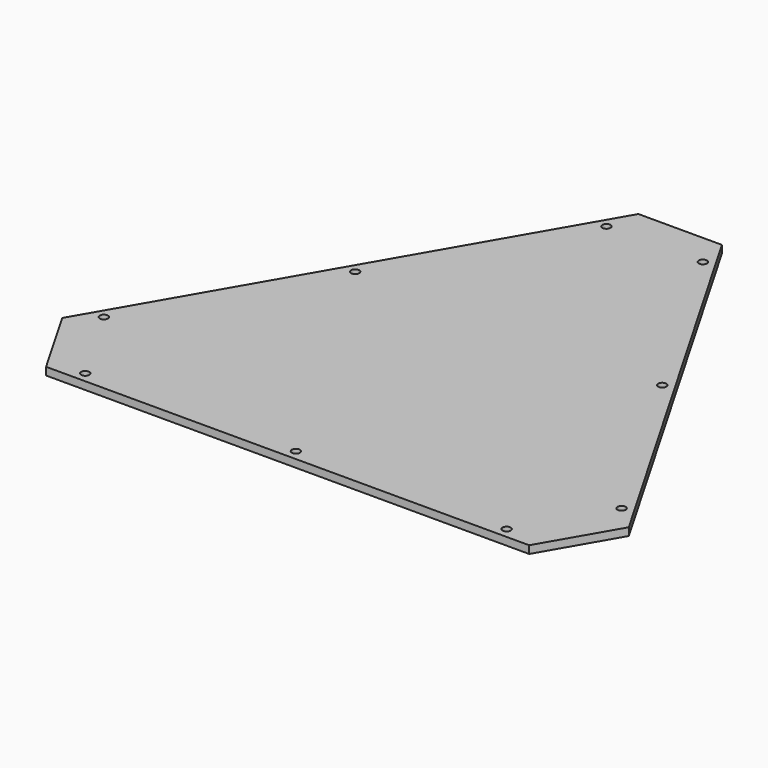
from build123d import *

# Parameters (mm, degrees)
F1_DEPTH = 6.35


with BuildPart() as f1:
    # F0 (on Top) → F1 (new body)
    with BuildSketch(Plane.XY):
        Polygon((538.830596, 268.757908), (339.87359, -75.845721), (374.275071, -135.430819), (772.189058, -135.430819), (806.590538, -75.845721), (607.633532, 268.757908), align=None)
        with BuildLine():
            ThreePointArc((396.296871, -126.878334), (399.675071, -123.500134), (403.053271, -126.878334))
            ThreePointArc((403.053271, -126.878334), (399.675071, -130.256534), (396.296871, -126.878334))
        make_face(mode=Mode.SUBTRACT)
        with BuildLine():
            ThreePointArc((356.602055, -58.124903), (359.980255, -54.746703), (363.358455, -58.124903))
            ThreePointArc((363.358455, -58.124903), (359.980255, -61.503103), (356.602055, -58.124903))
        make_face(mode=Mode.SUBTRACT)
        with BuildLine():
            ThreePointArc((569.853877, -126.878334), (573.232077, -123.500134), (576.610277, -126.878334))
            ThreePointArc((576.610277, -126.878334), (573.232077, -130.256534), (569.853877, -126.878334))
        make_face(mode=Mode.SUBTRACT)
        with BuildLine():
            ThreePointArc((743.410858, -126.878334), (746.789058, -123.500134), (750.167258, -126.878334))
            ThreePointArc((750.167258, -126.878334), (746.789058, -130.256534), (743.410858, -126.878334))
        make_face(mode=Mode.SUBTRACT)
        with BuildLine():
            ThreePointArc((783.105673, -58.124903), (786.483873, -54.746703), (789.862073, -58.124903))
            ThreePointArc((789.862073, -58.124903), (786.483873, -61.503103), (783.105673, -58.124903))
        make_face(mode=Mode.SUBTRACT)
        with BuildLine():
            ThreePointArc((443.380571, 92.179851), (446.758771, 95.558051), (450.136971, 92.179851))
            ThreePointArc((450.136971, 92.179851), (446.758771, 88.801651), (443.380571, 92.179851))
        make_face(mode=Mode.SUBTRACT)
        with BuildLine():
            ThreePointArc((696.327157, 92.179851), (699.705357, 95.558051), (703.083557, 92.179851))
            ThreePointArc((703.083557, 92.179851), (699.705357, 88.801651), (696.327157, 92.179851))
        make_face(mode=Mode.SUBTRACT)
        with BuildLine():
            ThreePointArc((530.159062, 242.484631), (533.537262, 245.862831), (536.915462, 242.484631))
            ThreePointArc((536.915462, 242.484631), (533.537262, 239.106431), (530.159062, 242.484631))
        make_face(mode=Mode.SUBTRACT)
        with BuildLine():
            ThreePointArc((609.548667, 242.484631), (612.926867, 245.862831), (616.305067, 242.484631))
            ThreePointArc((616.305067, 242.484631), (612.926867, 239.106431), (609.548667, 242.484631))
        make_face(mode=Mode.SUBTRACT)
    extrude(amount=F1_DEPTH)


solid = f1.part
